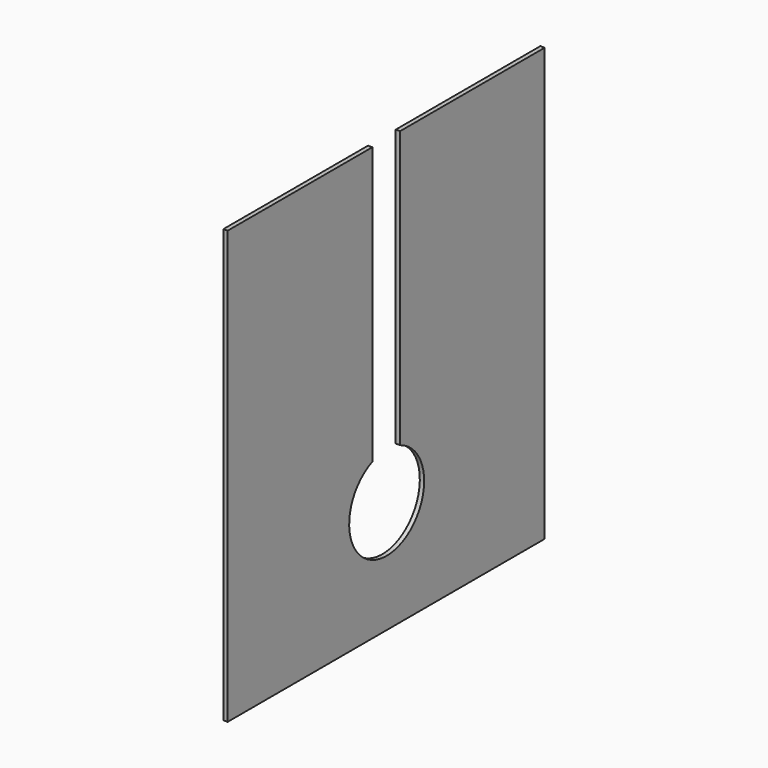
from build123d import *

# Parameters (mm, degrees)
F1_DEPTH = 6


with BuildPart() as f1:
    # F0 (on Right) → F1 (new body)
    with BuildSketch(Plane.YZ):
        with BuildLine():
            Line((0, 575.288713), (0, -24.711287))
            Line((0, -24.711287), (550, -24.711287))
            Line((550, -24.711287), (550, 575.288713))
            Line((550, 575.288713), (299, 575.288713))
            Line((299, 575.288713), (299, 191.779455))
            ThreePointArc((299, 191.779455), (276.761631, 66.048645), (251, 191.105112))
            Line((251, 191.105112), (251, 575.222703))
            Line((251, 575.222703), (0, 575.288713))
        make_face()
    extrude(amount=F1_DEPTH)


solid = f1.part
